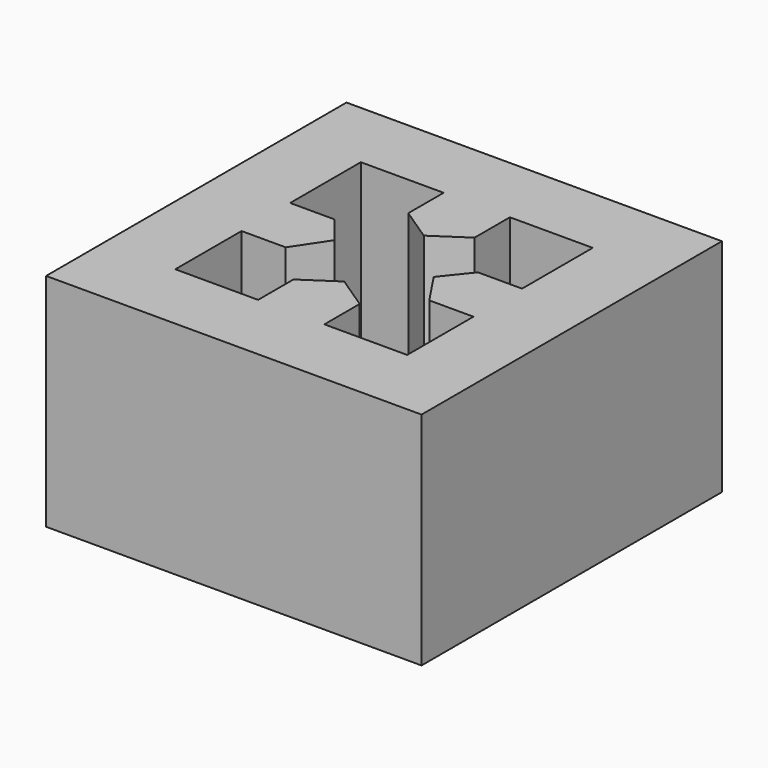
from build123d import *

# Parameters (mm, degrees)
SKETCH_W     = 34
SKETCH_H     = 34
PAD_DEPTH    = 20
POCKET_DEPTH = 20


with BuildPart() as part:
    # Sketch → Pad (new body)
    with BuildSketch(Plane.XY):
        with Locations((17, 17)):
            Rectangle(SKETCH_W, SKETCH_H)
    extrude(amount=PAD_DEPTH)

    # Sketch001 (on Face6 of Pad) → Pocket (cut)
    with BuildSketch(Plane.XY.offset(20)):
        Polygon((6.5, 27.5), (14, 27.5), (14, 23.5), (17, 21.5), (20, 23.5), (20, 27.5), (27.5, 27.5), (27.5, 19.5), (23.5, 19.5), (21.5, 17), (23.5, 14), (27.5, 14), (27.5, 6.5), (20, 6.5), (20, 10.5), (17, 12.5), (14, 10.5), (14, 6.5), (6.5, 6.5), (6.5, 14), (10.5, 14), (12.5, 17), (10.5, 19.5), (6.5, 19.5), align=None)
    extrude(amount=-POCKET_DEPTH, mode=Mode.SUBTRACT)


solid = part.part
